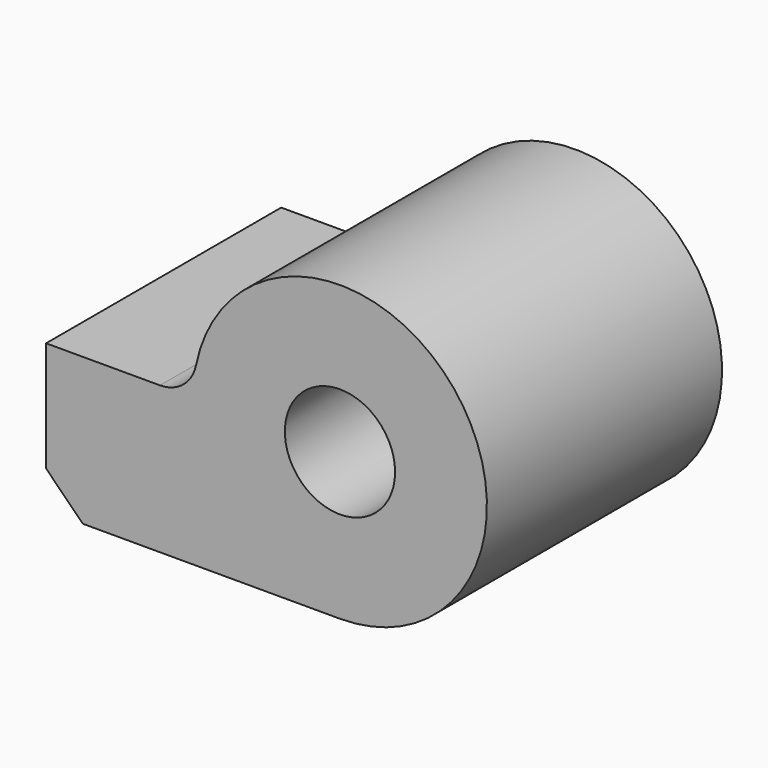
from build123d import *

# Parameters (mm, degrees)
F0_R     = 9.525
F1_DEPTH = 50.8
F2_R     = 6.35
F3_SIZE  = 6.35


with BuildPart() as f1:
    # F0 (on Front) → F1 (new body)
    with BuildSketch(Plane.XZ):
        with BuildLine():
            Line((0, 25.4), (0, 0))
            Line((0, 0), (50.8, 0))
            ThreePointArc((50.8, 0), (68.760512, 43.360512), (25.4, 25.4))
            Line((25.4, 25.4), (0, 25.4))
        make_face()
        with Locations((50.8, 25.4)):
            Circle(F0_R, mode=Mode.SUBTRACT)
    extrude(amount=-F1_DEPTH)

    # F2
    f2_edges = [f1.edges().sort_by_distance(p)[0] for p in [
        (25.4, 25.4, 25.4),
    ]]
    fillet(f2_edges, radius=F2_R)

    # F3
    f3_edges = [f1.edges().sort_by_distance(p)[0] for p in [
        (0, 25.4, 0),
    ]]
    chamfer(f3_edges, length=F3_SIZE)


solid = f1.part
